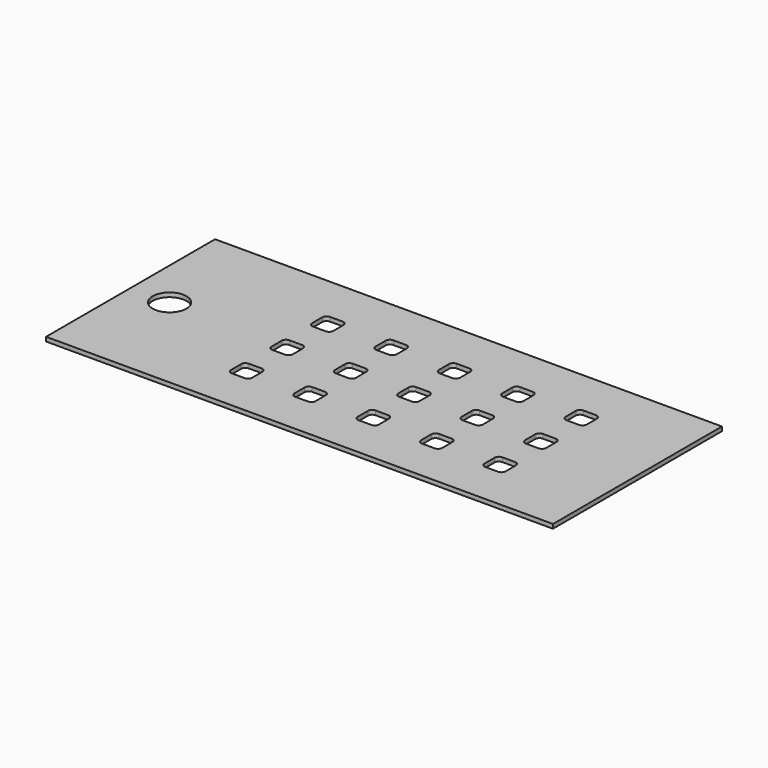
from build123d import *

# Parameters (mm, degrees)
F0_W     = 120
F0_H     = 50
F0_R     = 4
F1_DEPTH = 1


with BuildPart() as f1:
    # F0 (on Top) → F1 (new body)
    with BuildSketch(Plane.XY):
        Rectangle(F0_W, F0_H)
        with BuildLine():
            Line((-21, -15), (-24, -15))
            ThreePointArc((-24, -15), (-24.707107, -14.707107), (-25, -14))
            Line((-25, -14), (-25, -11))
            ThreePointArc((-25, -11), (-24.707107, -10.292893), (-24, -10))
            Line((-24, -10), (-21, -10))
            ThreePointArc((-21, -10), (-20.292893, -10.292893), (-20, -11))
            Line((-20, -11), (-20, -14))
            ThreePointArc((-20, -14), (-20.292893, -14.707107), (-21, -15))
        make_face(mode=Mode.SUBTRACT)
        with BuildLine():
            ThreePointArc((-10, -11), (-9.707107, -10.292893), (-9, -10))
            Line((-9, -10), (-6, -10))
            ThreePointArc((-6, -10), (-5.292893, -10.292893), (-5, -11))
            Line((-5, -11), (-5, -14))
            ThreePointArc((-5, -14), (-5.292893, -14.707107), (-6, -15))
            Line((-6, -15), (-9, -15))
            ThreePointArc((-9, -15), (-9.707107, -14.707107), (-10, -14))
            Line((-10, -14), (-10, -11))
        make_face(mode=Mode.SUBTRACT)
        with BuildLine():
            ThreePointArc((-25, 1), (-24.707107, 1.707107), (-24, 2))
            Line((-24, 2), (-21, 2))
            ThreePointArc((-21, 2), (-20.292893, 1.707107), (-20, 1))
            Line((-20, 1), (-20, -2))
            ThreePointArc((-20, -2), (-20.292893, -2.707107), (-21, -3))
            Line((-21, -3), (-24, -3))
            ThreePointArc((-24, -3), (-24.707107, -2.707107), (-25, -2))
            Line((-25, -2), (-25, 1))
        make_face(mode=Mode.SUBTRACT)
        with BuildLine():
            ThreePointArc((-10, 1), (-9.707107, 1.707107), (-9, 2))
            Line((-9, 2), (-6, 2))
            ThreePointArc((-6, 2), (-5.292893, 1.707107), (-5, 1))
            Line((-5, 1), (-5, -2))
            ThreePointArc((-5, -2), (-5.292893, -2.707107), (-6, -3))
            Line((-6, -3), (-9, -3))
            ThreePointArc((-9, -3), (-9.707107, -2.707107), (-10, -2))
            Line((-10, -2), (-10, 1))
        make_face(mode=Mode.SUBTRACT)
        with BuildLine():
            ThreePointArc((5, -11), (5.292893, -10.292893), (6, -10))
            Line((6, -10), (9, -10))
            ThreePointArc((9, -10), (9.707107, -10.292893), (10, -11))
            Line((10, -11), (10, -14))
            ThreePointArc((10, -14), (9.707107, -14.707107), (9, -15))
            Line((9, -15), (6, -15))
            ThreePointArc((6, -15), (5.292893, -14.707107), (5, -14))
            Line((5, -14), (5, -11))
        make_face(mode=Mode.SUBTRACT)
        with BuildLine():
            ThreePointArc((20, -11), (20.292893, -10.292893), (21, -10))
            Line((21, -10), (24, -10))
            ThreePointArc((24, -10), (24.707107, -10.292893), (25, -11))
            Line((25, -11), (25, -14))
            ThreePointArc((25, -14), (24.707107, -14.707107), (24, -15))
            Line((24, -15), (21, -15))
            ThreePointArc((21, -15), (20.292893, -14.707107), (20, -14))
            Line((20, -14), (20, -11))
        make_face(mode=Mode.SUBTRACT)
        with BuildLine():
            ThreePointArc((5, 1), (5.292893, 1.707107), (6, 2))
            Line((6, 2), (9, 2))
            ThreePointArc((9, 2), (9.707107, 1.707107), (10, 1))
            Line((10, 1), (10, -2))
            ThreePointArc((10, -2), (9.707107, -2.707107), (9, -3))
            Line((9, -3), (6, -3))
            ThreePointArc((6, -3), (5.292893, -2.707107), (5, -2))
            Line((5, -2), (5, 1))
        make_face(mode=Mode.SUBTRACT)
        with BuildLine():
            ThreePointArc((20, 1), (20.292893, 1.707107), (21, 2))
            Line((21, 2), (24, 2))
            ThreePointArc((24, 2), (24.707107, 1.707107), (25, 1))
            Line((25, 1), (25, -2))
            ThreePointArc((25, -2), (24.707107, -2.707107), (24, -3))
            Line((24, -3), (21, -3))
            ThreePointArc((21, -3), (20.292893, -2.707107), (20, -2))
            Line((20, -2), (20, 1))
        make_face(mode=Mode.SUBTRACT)
        with BuildLine():
            ThreePointArc((35, -11), (35.292893, -10.292893), (36, -10))
            Line((36, -10), (39, -10))
            ThreePointArc((39, -10), (39.707107, -10.292893), (40, -11))
            Line((40, -11), (40, -14))
            ThreePointArc((40, -14), (39.707107, -14.707107), (39, -15))
            Line((39, -15), (36, -15))
            ThreePointArc((36, -15), (35.292893, -14.707107), (35, -14))
            Line((35, -14), (35, -11))
        make_face(mode=Mode.SUBTRACT)
        with BuildLine():
            ThreePointArc((35, 1), (35.292893, 1.707107), (36, 2))
            Line((36, 2), (39, 2))
            ThreePointArc((39, 2), (39.707107, 1.707107), (40, 1))
            Line((40, 1), (40, -2))
            ThreePointArc((40, -2), (39.707107, -2.707107), (39, -3))
            Line((39, -3), (36, -3))
            ThreePointArc((36, -3), (35.292893, -2.707107), (35, -2))
            Line((35, -2), (35, 1))
        make_face(mode=Mode.SUBTRACT)
        with Locations((-50.762694, 0)):
            Circle(F0_R, mode=Mode.SUBTRACT)
        with BuildLine():
            ThreePointArc((-25, 13), (-24.707107, 13.707107), (-24, 14))
            Line((-24, 14), (-21, 14))
            ThreePointArc((-21, 14), (-20.292893, 13.707107), (-20, 13))
            Line((-20, 13), (-20, 10))
            ThreePointArc((-20, 10), (-20.292893, 9.292893), (-21, 9))
            Line((-21, 9), (-24, 9))
            ThreePointArc((-24, 9), (-24.707107, 9.292893), (-25, 10))
            Line((-25, 10), (-25, 13))
        make_face(mode=Mode.SUBTRACT)
        with BuildLine():
            ThreePointArc((-10, 13), (-9.707107, 13.707107), (-9, 14))
            Line((-9, 14), (-6, 14))
            ThreePointArc((-6, 14), (-5.292893, 13.707107), (-5, 13))
            Line((-5, 13), (-5, 10))
            ThreePointArc((-5, 10), (-5.292893, 9.292893), (-6, 9))
            Line((-6, 9), (-9, 9))
            ThreePointArc((-9, 9), (-9.707107, 9.292893), (-10, 10))
            Line((-10, 10), (-10, 13))
        make_face(mode=Mode.SUBTRACT)
        with BuildLine():
            ThreePointArc((5, 13), (5.292893, 13.707107), (6, 14))
            Line((6, 14), (9, 14))
            ThreePointArc((9, 14), (9.707107, 13.707107), (10, 13))
            Line((10, 13), (10, 10))
            ThreePointArc((10, 10), (9.707107, 9.292893), (9, 9))
            Line((9, 9), (6, 9))
            ThreePointArc((6, 9), (5.292893, 9.292893), (5, 10))
            Line((5, 10), (5, 13))
        make_face(mode=Mode.SUBTRACT)
        with BuildLine():
            ThreePointArc((20, 13), (20.292893, 13.707107), (21, 14))
            Line((21, 14), (24, 14))
            ThreePointArc((24, 14), (24.707107, 13.707107), (25, 13))
            Line((25, 13), (25, 10))
            ThreePointArc((25, 10), (24.707107, 9.292893), (24, 9))
            Line((24, 9), (21, 9))
            ThreePointArc((21, 9), (20.292893, 9.292893), (20, 10))
            Line((20, 10), (20, 13))
        make_face(mode=Mode.SUBTRACT)
        with BuildLine():
            ThreePointArc((35, 13), (35.292893, 13.707107), (36, 14))
            Line((36, 14), (39, 14))
            ThreePointArc((39, 14), (39.707107, 13.707107), (40, 13))
            Line((40, 13), (40, 10))
            ThreePointArc((40, 10), (39.707107, 9.292893), (39, 9))
            Line((39, 9), (36, 9))
            ThreePointArc((36, 9), (35.292893, 9.292893), (35, 10))
            Line((35, 10), (35, 13))
        make_face(mode=Mode.SUBTRACT)
    extrude(amount=F1_DEPTH)


solid = f1.part
